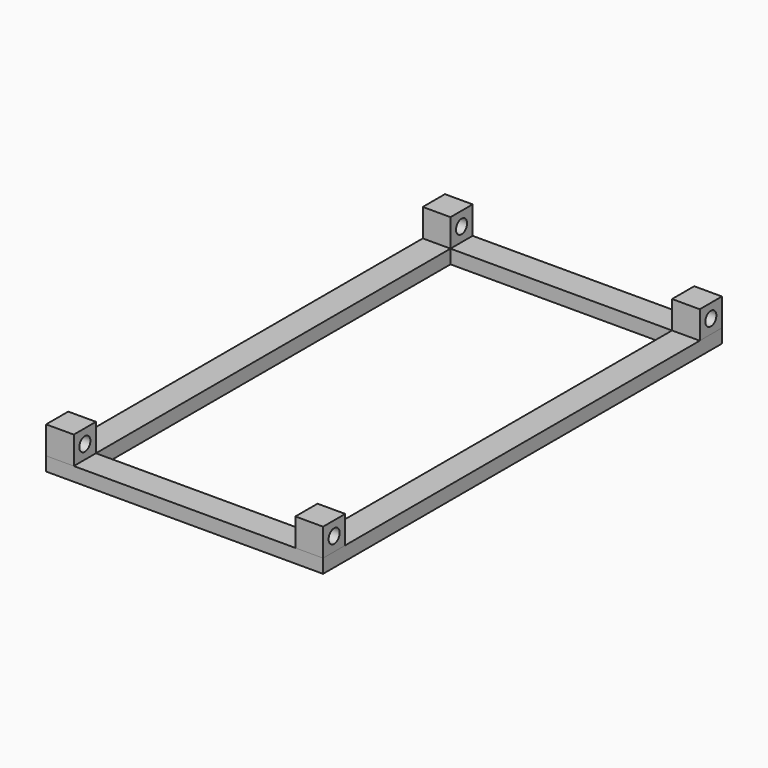
from build123d import *

# Parameters (mm, degrees)
F0_W     = 500
F0_H     = 900
F0_W_2   = 400
F0_H_2   = 800
F1_DEPTH = 25
F2_W     = 50
F2_H     = 50
F3_DEPTH = 50
F4_R     = 12.5
F5_DEPTH = 500.001
F6_R     = 12.5
F7_DEPTH = 500.001


with BuildPart() as f1:
    # F0 (on Top) → F1 (new body)
    with BuildSketch(Plane.XY):
        with Locations((250, -450)):
            Rectangle(F0_W, F0_H)
        with Locations((250, -450)):
            Rectangle(F0_W_2, F0_H_2, mode=Mode.SUBTRACT)
    extrude(amount=F1_DEPTH)


with BuildPart() as f3:
    # F2 (on face) → F3 (new body)
    with BuildSketch(Plane.XY.offset(25)):
        with Locations((25, -875)):
            Rectangle(F2_W, F2_H)
        with Locations((25, -25)):
            Rectangle(F2_W, F2_H)
        with Locations((475, -25)):
            Rectangle(F2_W, F2_H)
        with Locations((475, -875)):
            Rectangle(F2_W, F2_H)
    extrude(amount=F3_DEPTH)

    # F4 (on face) → F5 (cut, through all)
    with BuildSketch(Plane.YZ.offset(500)):
        with Locations((-875, 50)):
            Circle(F4_R)
    extrude(amount=-F5_DEPTH, mode=Mode.SUBTRACT)

    # F6 (on face) → F7 (cut, through all)
    with BuildSketch(Plane.YZ.offset(500)):
        with Locations((-25, 50)):
            Circle(F6_R)
    extrude(amount=-F7_DEPTH, mode=Mode.SUBTRACT)


solid = Compound([f1.part, f3.part])
